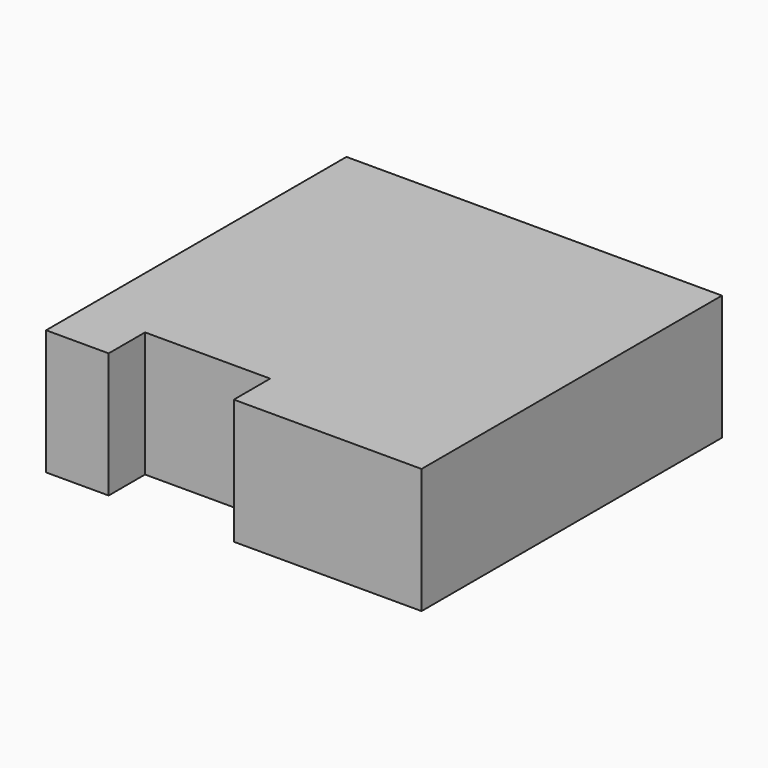
from build123d import *

# Parameters (mm, degrees)
F0_W     = 76.2
F0_H     = 76.2
F1_DEPTH = 25.4
F4_DEPTH = 32.766


with BuildPart() as f1:
    # F0 (on Top) → F1 (new body)
    with BuildSketch(Plane.XY):
        Rectangle(F0_W, F0_H)
    extrude(amount=F1_DEPTH)

    # F3 (on face) → F4 (cut)
    with BuildSketch(Plane.XY.offset(25.4)):
        Polygon((-25.4, -28.87211), (-25.4, -37.925228), (-25.4, -45.227721), (0, -45.227721), (0, -38.1), (0, -28.87211), align=None)
    extrude(amount=-F4_DEPTH, mode=Mode.SUBTRACT)


solid = f1.part
